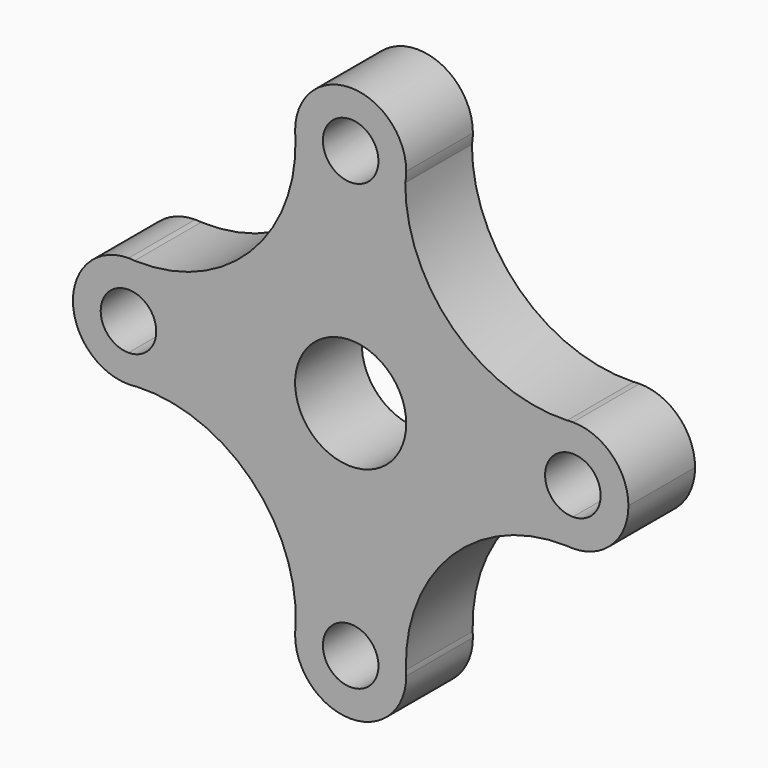
from build123d import *

# Parameters (mm, degrees)
F0_R     = 12.7
F1_DEPTH = 19.05


with BuildPart() as f1:
    # F0 (on Front) → F1 (new body)
    with BuildSketch(Plane.XZ):
        with BuildLine():
            Line((12.5552676618, 50.8), (6.35, 50.8))
            ThreePointArc((6.35, 50.8), (0, 44.45), (-6.35, 50.8))
            Line((-6.35, 50.8), (-12.7, 50.8))
            ThreePointArc((-12.7, 50.8), (-12.6547477412, 50.1030744688), (-12.623195922, 49.4053944235))
            ThreePointArc((-12.623195922, 49.4053944235), (-0.5027005097, 38.1099530262), (12.4733220574, 48.4112269151))
            ThreePointArc((12.4733220574, 48.4112269151), (12.4943375608, 49.6062980822), (12.5552676618, 50.8))
        make_face()
        with BuildLine():
            ThreePointArc((-6.35, 50.8), (0, 57.15), (6.35, 50.8))
            Line((6.35, 50.8), (12.5552676618, 50.8))
            Line((12.5552676618, 50.8), (12.7, 50.8))
            ThreePointArc((12.7, 50.8), (0, 63.5), (-12.7, 50.8))
            Line((-12.7, 50.8), (-6.35, 50.8))
        make_face()
        with BuildLine():
            Line((12.7, 50.8), (12.5552676618, 50.8))
            ThreePointArc((12.5552676618, 50.8), (12.4943375608, 49.6062980822), (12.4733220574, 48.4112269151))
            ThreePointArc((12.4733220574, 48.4112269151), (12.6432035127, 49.6002479693), (12.7, 50.8))
        make_face()
        with BuildLine():
            ThreePointArc((-12.623195922, 49.4053944235), (-12.6547477412, 50.1030744688), (-12.7, 50.8))
            ThreePointArc((-12.7, 50.8), (-12.6807844436, 50.1016405688), (-12.623195922, 49.4053944235))
        make_face()
        with BuildLine():
            ThreePointArc((49.4621205903, 12.6293340555), (23.373403019, 22.6698095536), (12.4733220574, 48.4112269151))
            ThreePointArc((12.4733220574, 48.4112269151), (-0.5027005097, 38.1099530262), (-12.623195922, 49.4053944235))
            ThreePointArc((-12.623195922, 49.4053944235), (-23.0125550108, 23.0125550108), (-49.4053944235, 12.623195922))
            ThreePointArc((-49.4053944235, 12.623195922), (-41.3395166397, 8.4728539813), (-38.1, 0))
            ThreePointArc((-38.1, 0), (-41.2035577614, -8.3185513379), (-48.9973695056, -12.571416917))
            ThreePointArc((-48.9973695056, -12.571416917), (-22.7523388598, -22.7523388598), (-12.571416917, -48.9973695056))
            ThreePointArc((-12.571416917, -48.9973695056), (0.2857229322, -38.1032144853), (12.6397809271, -49.5647113232))
            ThreePointArc((12.6397809271, -49.5647113232), (23.1125114369, -23.1125114369), (49.5647113232, -12.6397809271))
            ThreePointArc((49.5647113232, -12.6397809271), (38.1001046657, -0.0515606332), (49.4621205903, 12.6293340555))
        make_face()
        Circle(F0_R, mode=Mode.SUBTRACT)
        with BuildLine():
            ThreePointArc((50.8, 12.7), (50.1313911561, 12.6584030193), (49.4621205903, 12.6293340555))
            ThreePointArc((49.4621205903, 12.6293340555), (38.1001046657, -0.0515606332), (49.5647113232, -12.6397809271))
            ThreePointArc((49.5647113232, -12.6397809271), (50.1826156034, -12.6645582134), (50.8, -12.7))
            Line((50.8, -12.7), (50.8, -6.35))
            ThreePointArc((50.8, -6.35), (44.45, 0), (50.8, 6.35))
            Line((50.8, 6.35), (50.8, 12.7))
        make_face()
        with BuildLine():
            ThreePointArc((50.8, 12.7), (50.1301278125, 12.6823212092), (49.4621205903, 12.6293340555))
            ThreePointArc((49.4621205903, 12.6293340555), (50.1313911561, 12.6584030193), (50.8, 12.7))
        make_face()
        with BuildLine():
            ThreePointArc((-50.8, 12.7), (-50.1030744688, 12.6547477412), (-49.4053944235, 12.623195922))
            ThreePointArc((-49.4053944235, 12.623195922), (-50.1016405688, 12.6807844436), (-50.8, 12.7))
        make_face()
        with BuildLine():
            ThreePointArc((-38.1, 0), (-41.3395166397, 8.4728539813), (-49.4053944235, 12.623195922))
            ThreePointArc((-49.4053944235, 12.623195922), (-50.1030744688, 12.6547477412), (-50.8, 12.7))
            Line((-50.8, 12.7), (-50.8, 6.35))
            ThreePointArc((-50.8, 6.35), (-46.3098719395, 4.4901280605), (-44.45, 0))
            ThreePointArc((-44.45, 0), (-46.3098719395, -4.4901280605), (-50.8, -6.35))
            Line((-50.8, -6.35), (-50.8, -12.7))
            ThreePointArc((-50.8, -12.7), (-49.8995176161, -12.6240323908), (-48.9973695056, -12.571416917))
            ThreePointArc((-48.9973695056, -12.571416917), (-41.2035577614, -8.3185513379), (-38.1, 0))
        make_face()
        with BuildLine():
            ThreePointArc((63.5, 0), (59.7802561211, 8.9802561211), (50.8, 12.7))
            Line((50.8, 12.7), (50.8, 6.35))
            ThreePointArc((50.8, 6.35), (55.2901280605, 4.4901280605), (57.15, 0))
            ThreePointArc((57.15, 0), (55.2901280605, -4.4901280605), (50.8, -6.35))
            Line((50.8, -6.35), (50.8, -12.7))
            ThreePointArc((50.8, -12.7), (59.7802561211, -8.9802561211), (63.5, 0))
        make_face()
        with BuildLine():
            ThreePointArc((50.8, -12.7), (50.1826156034, -12.6645582134), (49.5647113232, -12.6397809271))
            ThreePointArc((49.5647113232, -12.6397809271), (50.1816221924, -12.6849362981), (50.8, -12.7))
        make_face()
        with BuildLine():
            Line((-50.8, 6.35), (-50.8, 12.7))
            ThreePointArc((-50.8, 12.7), (-63.5, 0), (-50.8, -12.7))
            Line((-50.8, -12.7), (-50.8, -6.35))
            ThreePointArc((-50.8, -6.35), (-57.15, 0), (-50.8, 6.35))
        make_face()
        with BuildLine():
            ThreePointArc((12.7, -50.8), (12.6645582134, -50.1826156034), (12.6397809271, -49.5647113232))
            ThreePointArc((12.6397809271, -49.5647113232), (0.2857229322, -38.1032144853), (-12.571416917, -48.9973695056))
            ThreePointArc((-12.571416917, -48.9973695056), (-12.6240323908, -49.8995176161), (-12.7, -50.8))
            Line((-12.7, -50.8), (-6.35, -50.8))
            ThreePointArc((-6.35, -50.8), (0, -44.45), (6.35, -50.8))
            Line((6.35, -50.8), (12.7, -50.8))
        make_face()
        with BuildLine():
            ThreePointArc((12.7, -50.8), (12.6849362981, -50.1816221924), (12.6397809271, -49.5647113232))
            ThreePointArc((12.6397809271, -49.5647113232), (12.6645582134, -50.1826156034), (12.7, -50.8))
        make_face()
        with BuildLine():
            ThreePointArc((-50.8, -12.7), (-49.8963946784, -12.6678134429), (-48.9973695056, -12.571416917))
            ThreePointArc((-48.9973695056, -12.571416917), (-49.8995176161, -12.6240323908), (-50.8, -12.7))
        make_face()
        with BuildLine():
            ThreePointArc((-12.7, -50.8), (0, -63.5), (12.7, -50.8))
            Line((12.7, -50.8), (6.35, -50.8))
            ThreePointArc((6.35, -50.8), (0, -57.15), (-6.35, -50.8))
            Line((-6.35, -50.8), (-12.7, -50.8))
        make_face()
        with BuildLine():
            ThreePointArc((-12.7, -50.8), (-12.6240323908, -49.8995176161), (-12.571416917, -48.9973695056))
            ThreePointArc((-12.571416917, -48.9973695056), (-12.6678134429, -49.8963946784), (-12.7, -50.8))
        make_face()
    extrude(amount=F1_DEPTH)


solid = f1.part
